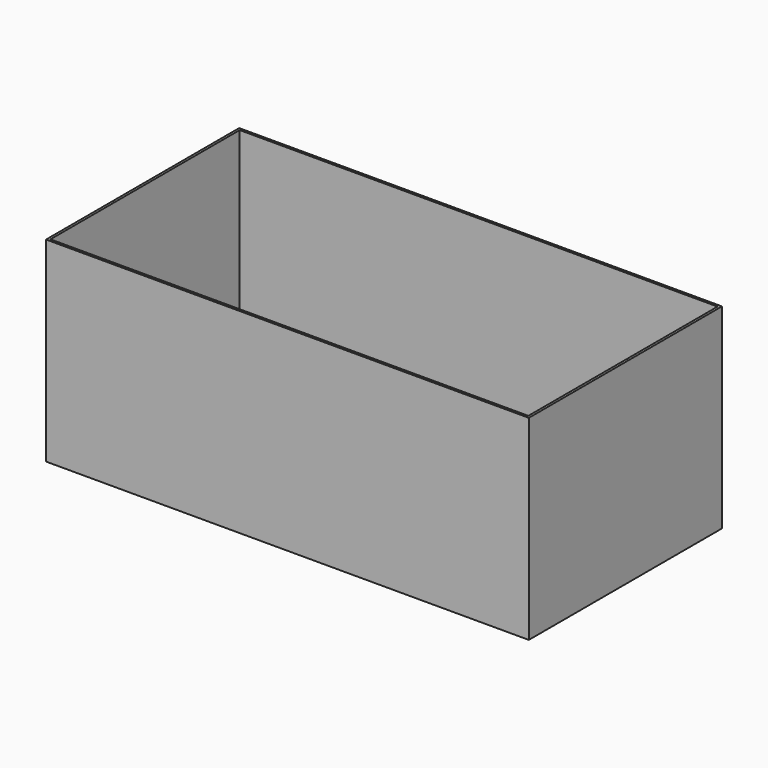
from build123d import *

# Parameters (mm, degrees)
F0_W      = 508
F0_H      = 254
F1_DEPTH  = 2.54
F2_W      = 2.54
F2_H      = 254
F3_DEPTH  = 203.2
F4_W      = 505.46
F4_H      = 2.54
F5_DEPTH  = 203.2
F6_W      = 2.54
F6_H      = 251.46
F7_DEPTH  = 203.2
F8_W      = 502.92
F8_H      = 2.54
F9_DEPTH  = 203.2
F10_W     = 50.8
F10_H     = 88.9
F11_DEPTH = 25.4
F12_W     = 50.8
F12_H     = 25.4
F13_DEPTH = 25.4


with BuildPart() as f1:
    # F0 (on Top) → F1 (new body)
    with BuildSketch(Plane.XY):
        Rectangle(F0_W, F0_H)
    extrude(amount=F1_DEPTH)

    # F2 (on face) → F3 (join)
    with BuildSketch(Plane.XY.offset(2.54)):
        with Locations((-252.73, 0)):
            Rectangle(F2_W, F2_H)
    extrude(amount=F3_DEPTH)

    # F4 (on face) → F5 (join)
    with BuildSketch(Plane.XY.offset(2.54)):
        with Locations((1.27, 125.73)):
            Rectangle(F4_W, F4_H)
    extrude(amount=F5_DEPTH)

    # F6 (on face) → F7 (join)
    with BuildSketch(Plane.XY.offset(2.54)):
        with Locations((252.73, -1.27)):
            Rectangle(F6_W, F6_H)
    extrude(amount=F7_DEPTH)

    # F8 (on face) → F9 (join)
    with BuildSketch(Plane.XY.offset(2.54)):
        with Locations((0, -125.73)):
            Rectangle(F8_W, F8_H)
    extrude(amount=F9_DEPTH)

    # F10 (on face) → F11 (cut)
    with BuildSketch(Plane.YZ.offset(-251.46)):
        with Locations((8.812193, 46.99)):
            Rectangle(F10_W, F10_H)
    extrude(amount=-F11_DEPTH, mode=Mode.SUBTRACT)

    # F12 (on face) → F13 (cut)
    with BuildSketch(Plane(origin=(-254, 0, 0), x_dir=(0, -1, 0), z_dir=(-1, 0, 0))):
        with Locations((71.237722, 77.256631)):
            Rectangle(F12_W, F12_H)
    extrude(amount=-F13_DEPTH, mode=Mode.SUBTRACT)


solid = f1.part
